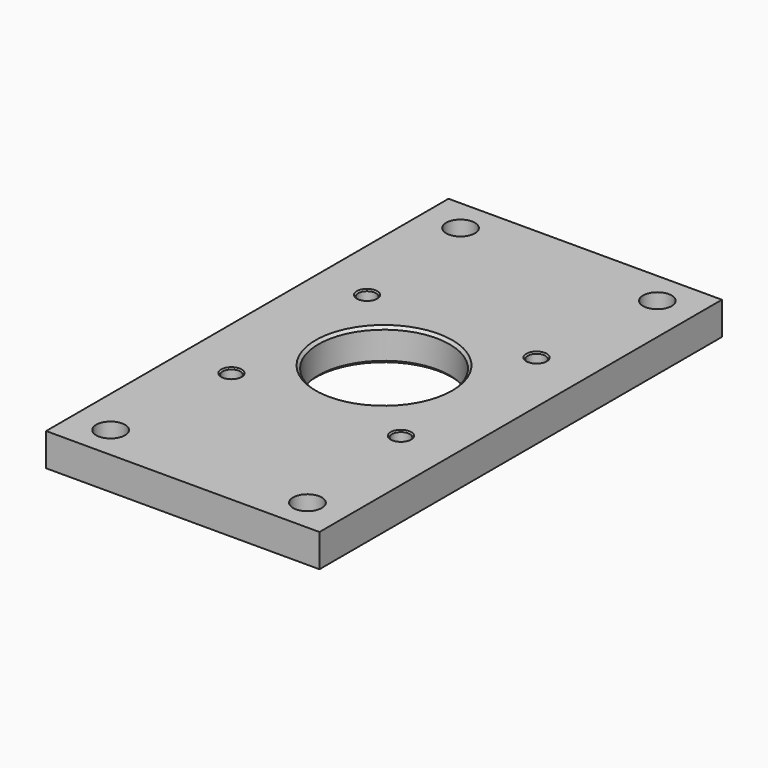
from build123d import *

# Parameters (mm, degrees)
SKETCH_W        = 50
SKETCH_H        = 92
SKETCH_R        = 2.625
SKETCH_R_2      = 1.625
SKETCH_R_3      = 12
PAD_DEPTH       = 6
CHAMFER_SIZE    = 0.5
CHAMFER001_SIZE = 0.25


with BuildPart() as part:
    # Sketch → Pad (new body)
    with BuildSketch(Plane.XY):
        Rectangle(SKETCH_W, SKETCH_H)
        with Locations((-18, 40)):
            Circle(SKETCH_R, mode=Mode.SUBTRACT)
        with Locations((18, 40)):
            Circle(SKETCH_R, mode=Mode.SUBTRACT)
        with Locations((-18, -40)):
            Circle(SKETCH_R, mode=Mode.SUBTRACT)
        with Locations((18, -40)):
            Circle(SKETCH_R, mode=Mode.SUBTRACT)
        with Locations((-15.5, 15.5)):
            Circle(SKETCH_R_2, mode=Mode.SUBTRACT)
        with Locations((15.5, 15.5)):
            Circle(SKETCH_R_2, mode=Mode.SUBTRACT)
        with Locations((-15.5, -15.5)):
            Circle(SKETCH_R_2, mode=Mode.SUBTRACT)
        with Locations((15.5, -15.5)):
            Circle(SKETCH_R_2, mode=Mode.SUBTRACT)
        Circle(SKETCH_R_3, mode=Mode.SUBTRACT)
    extrude(amount=PAD_DEPTH)

    # Chamfer
    chamfer_edges = [part.edges().sort_by_distance(p)[0] for p in [
        (-12, 0, 6),
        (-12, 0, 0),
    ]]
    chamfer(chamfer_edges, length=CHAMFER_SIZE)

    # Chamfer001
    chamfer001_edges = [part.edges().sort_by_distance(p)[0] for p in [
        (-17.125, 15.5, 6),
        (-17.125, -15.5, 6),
        (13.875, -15.5, 6),
        (13.875, 15.5, 6),
        (13.875, -15.5, 0),
        (13.875, 15.5, 0),
        (-17.125, -15.5, 0),
        (-17.125, 15.5, 0),
    ]]
    chamfer(chamfer001_edges, length=CHAMFER001_SIZE)


solid = part.part
